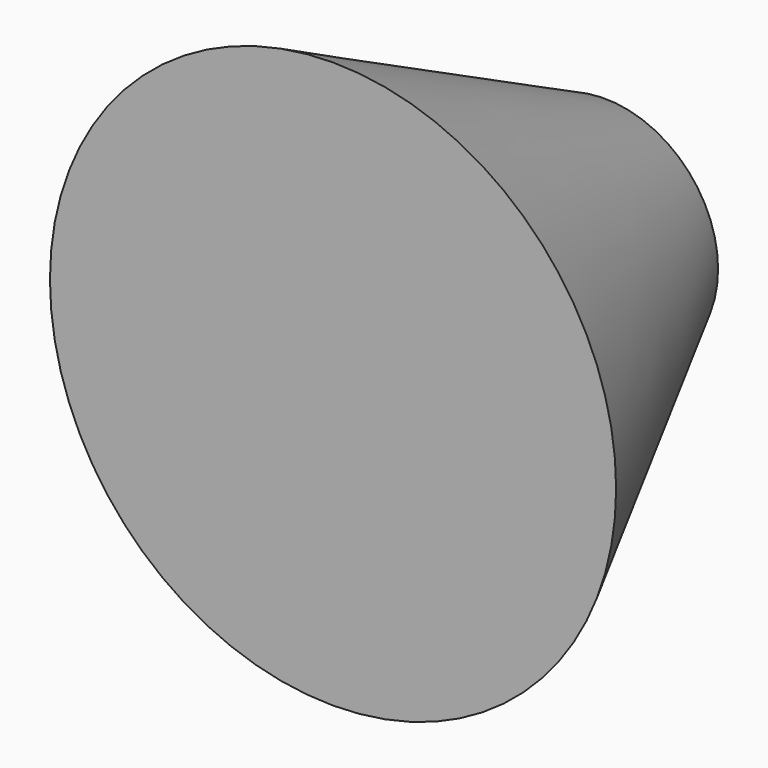
from build123d import *

# Parameters (mm, degrees)
F0_R = 63.5
F2_R = 25.4


with BuildPart() as f3:
    # F0 (on Front) → F3 section 0
    with BuildSketch(Plane.XZ):
        Circle(F0_R)
    # F2 (on offset) → F3 section 1
    with BuildSketch(Plane.XZ.offset(-76.2)):
        Circle(F2_R)
    loft()


solid = f3.part
